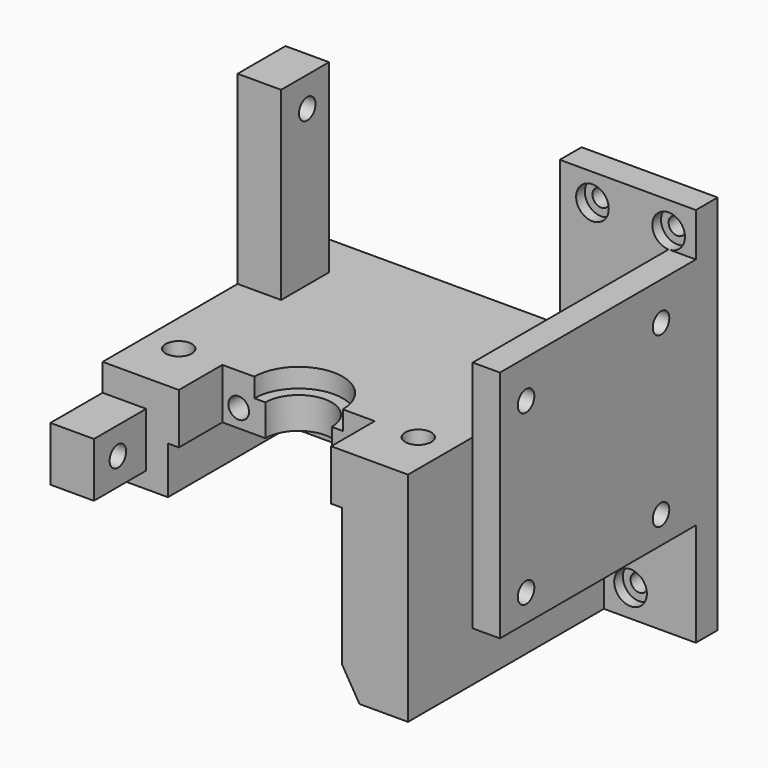
from build123d import *

# Parameters (mm, degrees)
PAD_DEPTH       = 70
SKETCH001_W     = 11.887794
SKETCH001_H     = 46.78
POCKET_DEPTH    = 70.001
POCKET001_DEPTH = 30
SKETCH003_R     = 2.4
POCKET002_DEPTH = 15
POCKET003_DEPTH = 3.5
POCKET004_DEPTH = 9
SKETCH021_W     = 28
SKETCH021_H     = 53.161749
POCKET005_DEPTH = 10
SKETCH022_W     = 32
SKETCH022_H     = 58.660217
POCKET006_DEPTH = 28
POCKET007_DEPTH = 51
SKETCH008_W     = 19.05323
SKETCH008_H     = 10.69447
SKETCH008_W_2   = 35.750058
SKETCH008_H_2   = 36.172176
POCKET008_DEPTH = 45
SKETCH009_R     = 1.9
POCKET009_DEPTH = 5
SKETCH015_W     = 11
SKETCH015_H     = 38.184422
SKETCH015_W_2   = 19.881198
SKETCH015_H_2   = 10
PAD001_DEPTH    = 8
SKETCH011_R     = 1.9
POCKET010_DEPTH = 10
SKETCH010_R     = 1.6
POCKET011_DEPTH = 7
SKETCH017_R     = 3
POCKET012_DEPTH = 2
SKETCH013_R     = 1.9
POCKET013_DEPTH = 10
SKETCH014_W     = 10
SKETCH014_H     = 15
PAD002_DEPTH    = 18


with BuildPart() as part:
    # Sketch → Pad (new body)
    with BuildSketch(Plane.XY):
        Polygon((0, 0), (45, 0), (45, -50), (-28, -50), (-28, 0), align=None)
    extrude(amount=PAD_DEPTH)

    # Sketch001 (on Face7 of Pad) → Pocket (cut, through all)
    with BuildSketch(Plane.XY.offset(70)):
        with Locations((34.056103, -28.39)):
            Rectangle(SKETCH001_W, SKETCH001_H)
    extrude(amount=-POCKET_DEPTH, mode=Mode.SUBTRACT)

    # Sketch002 (on Face5 of Pocket) → Pocket001 (cut)
    with BuildSketch(Plane.XY.offset(70)):
        Polygon((30, -5), (30, -65.096024), (-40.783405, -65.096024), (-40.783405, 12.994774), (20, 12.994774), (20, -5), align=None)
    extrude(amount=-POCKET001_DEPTH, mode=Mode.SUBTRACT)

    # Sketch003 (on Face6 of Pocket001) → Pocket002 (cut)
    with BuildSketch(Plane.XY.offset(40)):
        with Locations((-22, -40)):
            Circle(SKETCH003_R)
        with Locations((22, -40)):
            Circle(SKETCH003_R)
    extrude(amount=-POCKET002_DEPTH, mode=Mode.SUBTRACT)

    # Sketch004 (on Face6 of Pocket002) → Pocket003 (cut)
    with BuildSketch(Plane.XY.offset(40)):
        with BuildLine():
            ThreePointArc((8.125, -40), (0, -31.875), (-8.125, -40))
            Line((-8.125, -59.24), (-8.125, -40))
            Line((8.125, -59.24), (-8.125, -59.24))
            Line((8.125, -40), (8.125, -59.24))
        make_face()
    extrude(amount=-POCKET003_DEPTH, mode=Mode.SUBTRACT)

    # Sketch018 → Pocket004 (cut)
    with BuildSketch(Plane.XY.offset(36.5)):
        with BuildLine():
            ThreePointArc((6.1, -40), (0, -33.9), (-6.1, -40))
            Line((-6.1, -40), (-6.1, -50))
            Line((6.1, -50), (-6.1, -50))
            Line((6.1, -40), (6.1, -50))
        make_face()
    extrude(amount=-POCKET004_DEPTH, mode=Mode.SUBTRACT)

    # Sketch021 (on Face9 of Pocket004) → Pocket005 (cut)
    with BuildSketch(Plane.XZ.offset(50)):
        with Locations((0, 16.83664)):
            Rectangle(SKETCH021_W, SKETCH021_H)
    extrude(amount=-POCKET005_DEPTH, mode=Mode.SUBTRACT)

    # Sketch022 (on Face13 of Pocket005) → Pocket006 (cut)
    with BuildSketch(Plane.XZ.offset(50)):
        with Locations((0, 1.369891)):
            Rectangle(SKETCH022_W, SKETCH022_H)
    extrude(amount=-POCKET006_DEPTH, mode=Mode.SUBTRACT)

    # Sketch023 (on Face9 of Pocket006) → Pocket007 (cut)
    with BuildSketch(Plane.XZ.offset(50)):
        Polygon((-38.33, 22), (6, 22), (24, -8), (-38.33, -8), align=None)
    extrude(amount=-POCKET007_DEPTH, mode=Mode.SUBTRACT)

    # Sketch008 (on Face14 of Pocket007) → Pocket008 (cut)
    with BuildSketch(Plane.XZ.offset(50)):
        with Locations((44.142395, 67.347235)):
            Rectangle(SKETCH008_W, SKETCH008_H)
        with Locations((52.797694, 0.913912)):
            Rectangle(SKETCH008_W_2, SKETCH008_H_2)
    extrude(amount=-POCKET008_DEPTH, mode=Mode.SUBTRACT)

    # Sketch009 (on Face3 of Pocket008) → Pocket009 (cut)
    with BuildSketch(Plane.YZ.offset(45)):
        with Locations((-44, 55)):
            Circle(SKETCH009_R)
        with Locations((-13, 24)):
            Circle(SKETCH009_R)
        with Locations((-13, 55)):
            Circle(SKETCH009_R)
        with Locations((-44, 24)):
            Circle(SKETCH009_R)
    extrude(amount=-POCKET009_DEPTH, mode=Mode.SUBTRACT)

    # Sketch015 (on Face26 of Pocket009) → Pad001 (join)
    with BuildSketch(Plane(origin=(-28, 0, 0), x_dir=(0, -1, 0), z_dir=(-1, 0, 0))):
        with Locations((13.5, 54.907789)):
            Rectangle(SKETCH015_W, SKETCH015_H)
        with Locations((52.059401, 30)):
            Rectangle(SKETCH015_W_2, SKETCH015_H_2)
    extrude(amount=-PAD001_DEPTH)

    # Sketch011 (on Face26 of Pad001) → Pocket010 (cut)
    with BuildSketch(Plane(origin=(-28, 0, 0), x_dir=(0, -1, 0), z_dir=(-1, 0, 0))):
        with Locations((56.5, 30)):
            Circle(SKETCH011_R)
        with Locations((13, 68.5)):
            Circle(SKETCH011_R)
    extrude(amount=-POCKET010_DEPTH, mode=Mode.SUBTRACT)

    # Sketch010 (on Face1 of Pocket010) → Pocket011 (cut)
    with BuildSketch(Plane(origin=(0, 0, 0), x_dir=(-1, 0, 0), z_dir=(0, 1, 0))):
        with Locations((-33, 5)):
            Circle(SKETCH010_R)
        with Locations((-40, 65)):
            Circle(SKETCH010_R)
        with Locations((-26, 65)):
            Circle(SKETCH010_R)
    extrude(amount=-POCKET011_DEPTH, mode=Mode.SUBTRACT)

    # Sketch017 (on Face31 of Pocket011) → Pocket012 (cut)
    with BuildSketch(Plane.XZ.offset(5)):
        with Locations((26, 65)):
            Circle(SKETCH017_R)
        with Locations((33, 5)):
            Circle(SKETCH017_R)
        with Locations((40, 65)):
            Circle(SKETCH017_R)
    extrude(amount=-POCKET012_DEPTH, mode=Mode.SUBTRACT)

    # Sketch013 (on Face40 of Pocket012) → Pocket013 (cut)
    with BuildSketch(Plane.XZ.offset(40)):
        with Locations((-11, 34)):
            Circle(SKETCH013_R)
        with Locations((11, 34)):
            Circle(SKETCH013_R)
    extrude(amount=-POCKET013_DEPTH, mode=Mode.SUBTRACT)

    # Sketch014 (on Face4 of Pocket013) → Pad002 (join)
    with BuildSketch(Plane.YZ.offset(45)):
        with Locations((-30, 32.5)):
            Rectangle(SKETCH014_W, SKETCH014_H)
    extrude(amount=-PAD002_DEPTH)


solid = part.part
